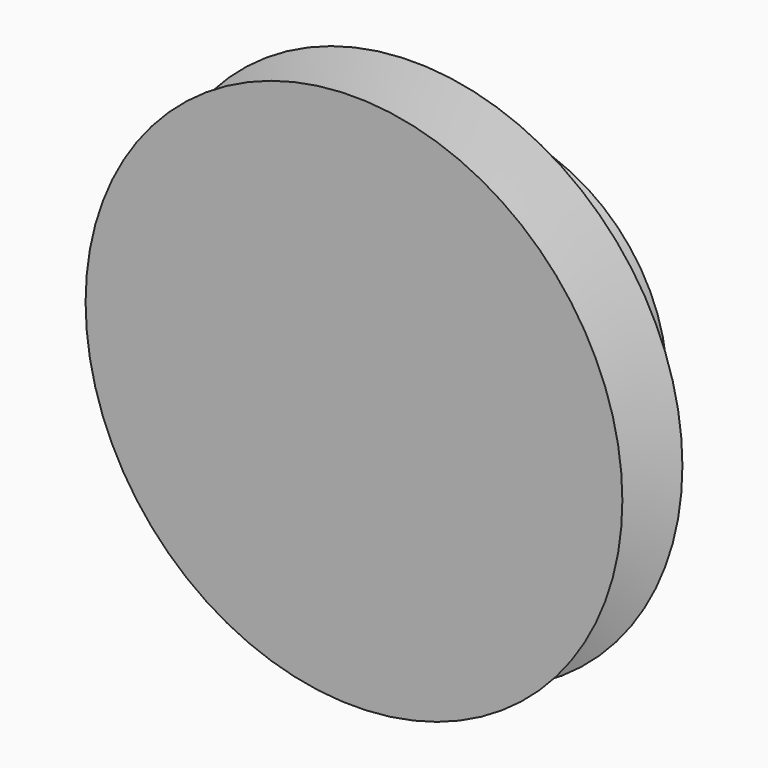
from build123d import *

# Parameters (mm, degrees)
POCKET_DEPTH = 15


with BuildPart() as part:
    # CopySketch → Revolution (revolve)
    with BuildSketch(Plane.XY):
        Polygon((0, 20), (19, 20), (19, 8.389587), (30, 8.389587), (21.909247, 5.444793), (21.909247, 2.944793), (30, 0), (0, 0), align=None)
    revolve(axis=Axis((0, 0, 0), (0, 1, 0)))

    # Sketch002 → Pocket (cut)
    with BuildSketch(Plane(origin=(0, 20, 0), x_dir=(-1, 0, 0), z_dir=(0, 1, 0))):
        Polygon((0, 13.914141), (-12.05, 6.957071), (-12.05, -6.957071), (0, -13.914141), (12.05, -6.957071), (12.05, 6.957071), align=None)
    extrude(amount=-POCKET_DEPTH, mode=Mode.SUBTRACT)


solid = part.part
